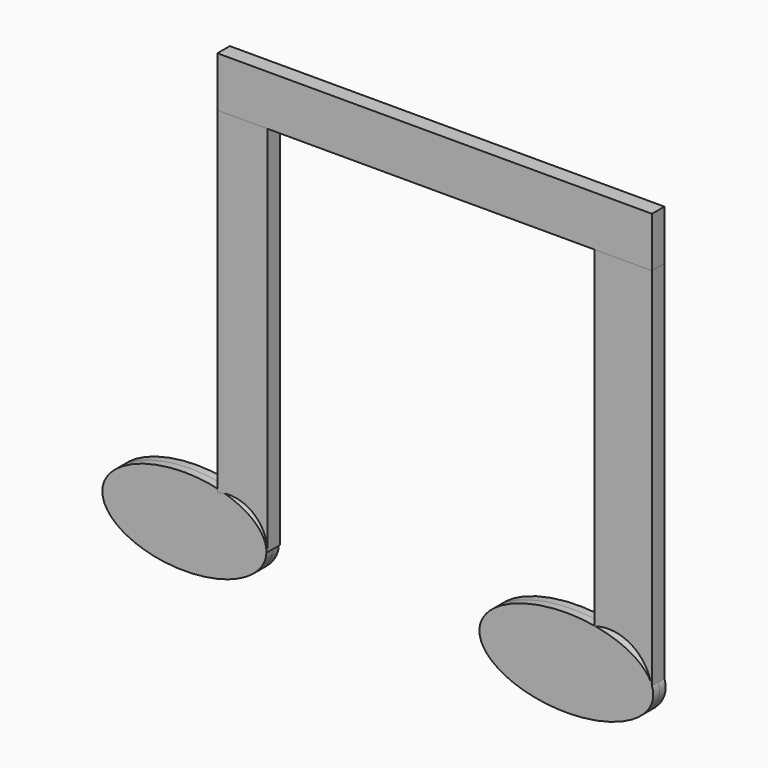
from build123d import *

# Parameters (mm, degrees)
F5_DEPTH = 1.5875
F4_W     = 88.9750905335
F4_H     = 10.2759972215


with BuildPart() as f5:
    # F0 (on Front) → F5 (new body, symmetric)
    with BuildSketch(Plane.XZ):
        with BuildLine():
            add(Edge.make_bspline(
                [(-57.1445673704, 0), (-57.1445673704, -15.4052348919), (-31.9558419287, -7.702617446), (-6.767116487, 0), (-31.9558419287, 7.702617446), (-57.1445673704, 15.4052348919), (-57.1445673704, 0)],
                knots=[0, 0, 0, 2.0943951024, 2.0943951024, 4.1887902048, 4.1887902048, 6.2831853072, 6.2831853072, 6.2831853072], degree=2, weights=[1, 0.5, 1, 0.5, 1, 0.5, 1]))
        make_face()
    extrude(amount=F5_DEPTH, both=True)


with BuildPart() as f5b:
    # F1 (on Front) → F5, piece 2 (new body, symmetric)
    with BuildSketch(Plane.XZ):
        with BuildLine():
            add(Edge.make_bspline(
                [(20.0507249683, 0), (20.0507249683, -15.5901480304), (46.743250452, -7.7950740152), (73.4357759356, 0), (46.743250452, 7.7950740152), (20.0507249683, 15.5901480304), (20.0507249683, 0)],
                knots=[0, 0, 0, 2.0943951024, 2.0943951024, 4.1887902048, 4.1887902048, 6.2831853072, 6.2831853072, 6.2831853072], degree=2, weights=[1, 0.5, 1, 0.5, 1, 0.5, 1]))
        make_face()
    extrude(amount=F5_DEPTH, both=True)


with BuildPart() as f5c:
    # F2 (on Front) → F5, piece 3 (new body, symmetric)
    with BuildSketch(Plane.XZ):
        with BuildLine():
            ThreePointArc((-33.5849635303, 7.393701002), (-26.5525628246, 6.3297498648), (-23.3089663088, 0))
            Line((-23.3089663088, 0), (-23.3089663088, 76.3180628419))
            Line((-23.3089663088, 76.3180628419), (-33.5849635303, 76.3180628419))
            Line((-33.5849635303, 76.3180628419), (-33.5849635303, 7.393701002))
        make_face()
    extrude(amount=F5_DEPTH, both=True)


with BuildPart() as f5d:
    # F3 (on Front) → F5, piece 4 (new body, symmetric)
    with BuildSketch(Plane.XZ):
        with BuildLine():
            ThreePointArc((43.6103269458, 8.3962371573), (51.6633287809, 7.2329193241), (55.3901270032, 0))
            Line((55.3901270032, 0), (55.3901270032, 76.3180628419))
            Line((55.3901270032, 76.3180628419), (43.6103269458, 76.3180628419))
            Line((43.6103269458, 76.3180628419), (43.6103269458, 8.3962371573))
        make_face()
    extrude(amount=F5_DEPTH, both=True)


with BuildPart() as f5e:
    # F4 (on Front) → F5, piece 5 (new body, symmetric)
    with BuildSketch(Plane.XZ):
        with Locations((10.9025817364, 81.4560614526)):
            Rectangle(F4_W, F4_H)
    extrude(amount=F5_DEPTH, both=True)


solid = Compound([f5.part, f5b.part, f5c.part, f5d.part, f5e.part])
